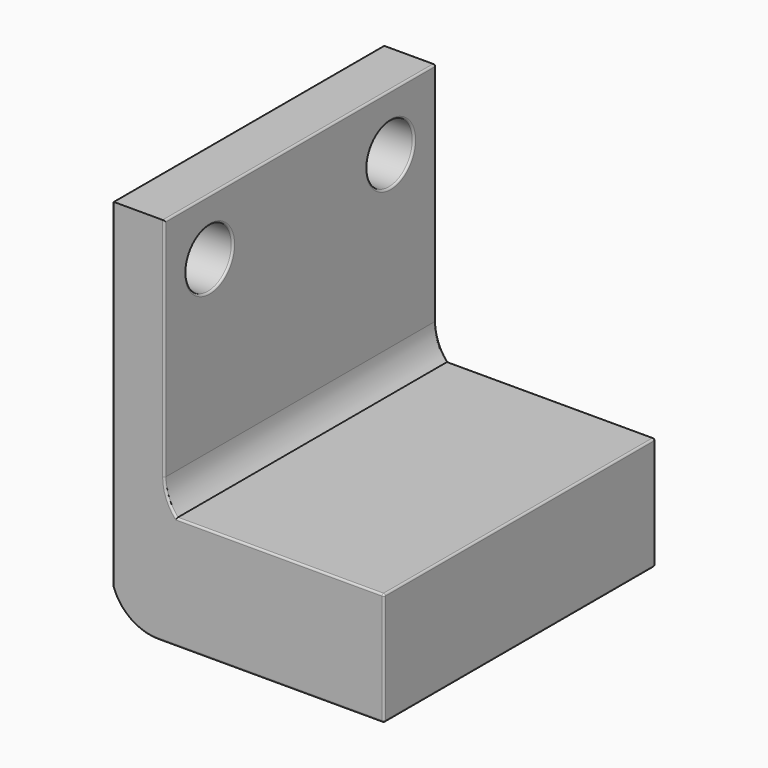
from build123d import *

# Parameters (mm, degrees)
F1_DEPTH = 90
F2_R     = 7.75
F3_DEPTH = 25
F4_R     = 0.5
F5_R     = 0.5


with BuildPart() as f1:
    # F0 (on Front) → F1 (new body)
    with BuildSketch(Plane.XZ):
        with BuildLine():
            Line((-27.57953, 51.989783), (-41.342754, 51.989783))
            Line((-41.342754, 51.989783), (-41.342754, -21.076756))
            Line((-41.342754, -21.076756), (-41.342754, -38.010217))
            ThreePointArc((-41.342754, -38.010217), (-36.697997, -44.115849), (-29.384729, -46.432877))
            Line((-29.384729, -46.432877), (30.615271, -46.432877))
            Line((30.615271, -46.432877), (30.615271, -16.432877))
            Line((30.615271, -16.432877), (-24.384729, -16.432877))
            ThreePointArc((-24.384729, -16.432877), (-26.753999, -12.514325), (-27.57953, -8.010217))
            Line((-27.57953, -8.010217), (-27.57953, 51.989783))
        make_face()
    extrude(amount=F1_DEPTH)

    # F2 (on face) → F3 (cut)
    with BuildSketch(Plane.YZ.offset(-27.57953)):
        with Locations((-75, 36.989783)):
            Circle(F2_R)
        with Locations((-15, 36.989783)):
            Circle(F2_R)
    extrude(amount=-F3_DEPTH, mode=Mode.SUBTRACT)

    # F4
    f4_edges = [f1.edges().sort_by_distance(p)[0] for p in [
        (-27.57953, -45, 51.989783),
        (-27.57953, 0, 21.989783),
        (-27.57953, -90, 21.989783),
        (30.615271, -45, -16.432877),
        (30.615271, -90, -31.432877),
        (30.615271, -45, -46.432877),
        (30.615271, 0, -31.432877),
        (3.115271, 0, -16.432877),
        (0.615271, 0, -46.432877),
        (-41.342754, 0, 6.989783),
        (-34.461142, 0, 51.989783),
        (-41.342754, -45, 51.989783),
        (-41.342754, -90, 6.989783),
        (-41.342754, -45, -38.010217),
        (0.615271, -90, -46.432877),
        (3.115271, -90, -16.432877),
    ]]
    fillet(f4_edges, radius=F4_R)

    # F5
    f5_edges = [f1.edges().sort_by_distance(p)[0] for p in [
        (-27.57953, -22.75, 36.989783),
        (-27.57953, -82.75, 36.989783),
        (-41.342754, -82.75, 36.989783),
        (-41.342754, -22.75, 36.989783),
    ]]
    fillet(f5_edges, radius=F5_R)


solid = f1.part
